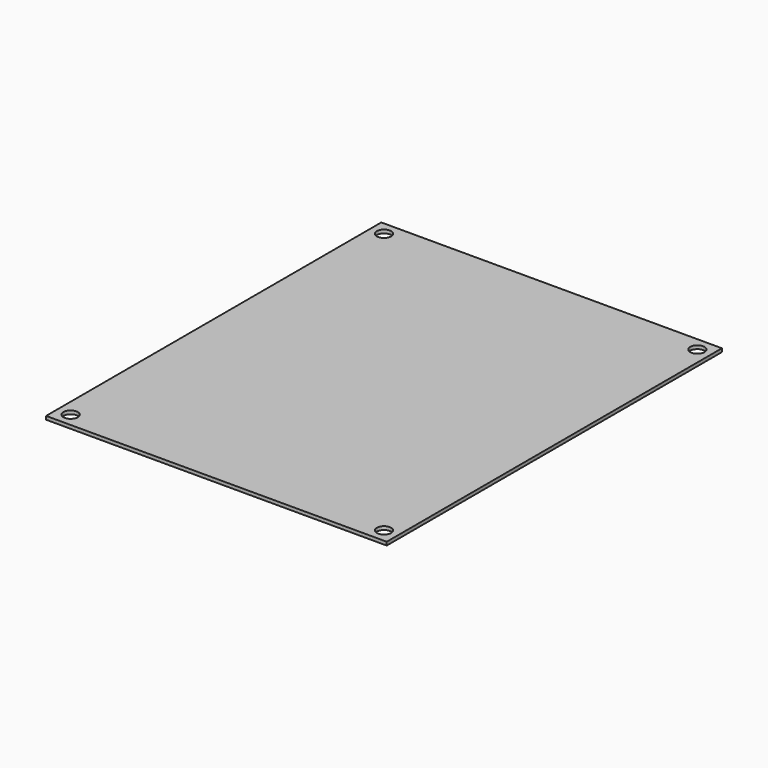
from build123d import *

# Parameters (mm, degrees)
F0_W     = 100
F0_H     = 123
F1_DEPTH = 1
F2_D     = 4.2
F2_DEPTH = 7


with BuildPart() as f1:
    # F0 (on Top) → F1 (new body)
    with BuildSketch(Plane.XY):
        Rectangle(F0_W, F0_H)
    extrude(amount=-F1_DEPTH)

    # F2
    with Locations(Plane.XY):
        with Locations((-46, 57.5), (-46, -57.5), (46, -57.5), (46, 57.5)):
            Hole(F2_D / 2, depth=F2_DEPTH)


solid = f1.part
